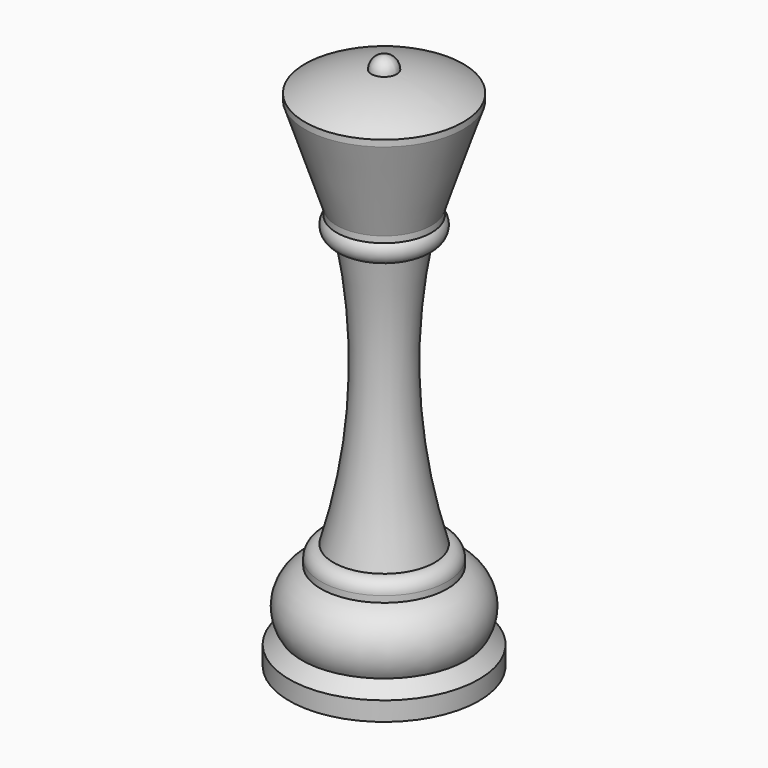
from build123d import *

# Parameters (mm, degrees)
F0_W   = 12.5
F0_H   = 1
F0_W_2 = 7.5
F0_W_3 = 10
F0_W_4 = 15
F0_H_2 = 3


with BuildPart() as f1:
    # F0 (on Front) → F1 (revolve)
    with BuildSketch(Plane.XZ):
        with BuildLine():
            Line((0, -2), (2, -2))
            ThreePointArc((2, -2), (1.414214, -0.585786), (0, 0))
            Line((0, 0), (0, -2))
        make_face()
        with BuildLine():
            ThreePointArc((12.5, -5.276521), (7.432432, -3.053634), (2, -2))
            Line((2, -2), (0, -2))
            Line((0, -2), (0, -5.276521))
            Line((0, -5.276521), (12.5, -5.276521))
        make_face()
        with Locations((6.25, -5.776521)):
            Rectangle(F0_W, F0_H)
        Polygon((7.5, -21.276521), (12.5, -6.276521), (0, -6.276521), (0, -21.276521), align=None)
        with Locations((3.75, -21.776521)):
            Rectangle(F0_W_2, F0_H)
        with BuildLine():
            ThreePointArc((6, -25.596521), (7.820079, -24.41999), (7.5, -22.276521))
            Line((7.5, -22.276521), (0, -22.276521))
            Line((0, -22.276521), (0, -25.596521))
            Line((0, -25.596521), (6, -25.596521))
        make_face()
        with BuildLine():
            ThreePointArc((8, -68.026521), (4.460945, -46.931203), (6, -25.596521))
            Line((6, -25.596521), (0, -25.596521))
            Line((0, -25.596521), (0, -68.026521))
            Line((0, -68.026521), (8, -68.026521))
        make_face()
        with BuildLine():
            ThreePointArc((10, -70.026521), (9.414214, -68.612307), (8, -68.026521))
            Line((8, -68.026521), (0, -68.026521))
            Line((0, -68.026521), (0, -70.026521))
            Line((0, -70.026521), (10, -70.026521))
        make_face()
        with Locations((5, -70.526521)):
            Rectangle(F0_W_3, F0_H)
        with BuildLine():
            ThreePointArc((13, -80), (13.690416, -74.780964), (10, -71.026521))
            Line((10, -71.026521), (0, -71.026521))
            Line((0, -71.026521), (0, -80))
            Line((0, -80), (13, -80))
        make_face()
        Polygon((15, -82), (13, -80), (0, -80), (0, -82), align=None)
        with Locations((7.5, -83.5)):
            Rectangle(F0_W_4, F0_H_2)
    revolve(axis=Axis((0, 0, -42.5), (0, 0, 1)))


solid = f1.part
